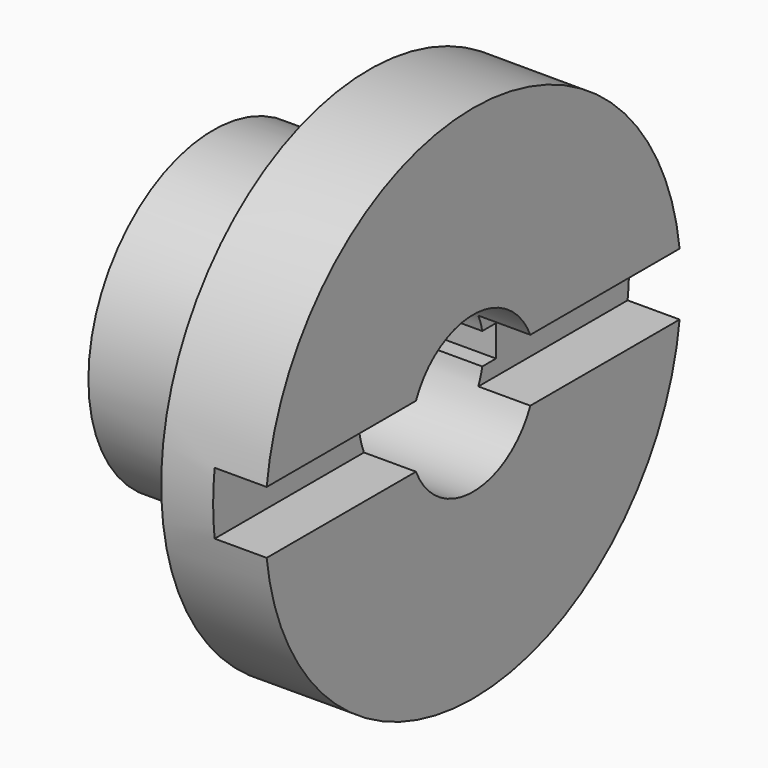
from build123d import *

# Parameters (mm, degrees)
F3_DEPTH = 10
F4_R     = 15
F5_DEPTH = 52.4
F6_W     = 100
F6_H     = 6
F7_DEPTH = 18
F8_R     = 10


with BuildPart() as f1:
    # F0 (on Top) → F1 (revolve)
    with BuildSketch(Plane.XY):
        Polygon((-50, 0), (0, 0), (0, 50), (-20, 50), (-20, 30), (-50, 30), align=None)
    revolve(axis=Axis((-25, 0, 0), (1, 0, 0)))

    # F2 (on face) → F3 (cut)
    with BuildSketch(Plane.YZ):
        with BuildLine():
            Line((49.638695, 6), (-49.638695, 6))
            ThreePointArc((-49.638695, 6), (-49.909592, 3.005434), (-50, 0))
            ThreePointArc((-50, 0), (-49.909592, -3.005434), (-49.638695, -6))
            Line((-49.638695, -6), (49.638695, -6))
            ThreePointArc((49.638695, -6), (49.909592, -3.005434), (50, 0))
            ThreePointArc((50, 0), (49.909592, 3.005434), (49.638695, 6))
        make_face()
    extrude(amount=-F3_DEPTH, mode=Mode.SUBTRACT)

    # F4 (on face) → F5 (cut)
    with BuildSketch(Plane(origin=(-50, 0, 0), x_dir=(0, -1, 0), z_dir=(-1, 0, 0))):
        Circle(F4_R)
    extrude(amount=-F5_DEPTH, mode=Mode.SUBTRACT)

    # F6 (on Front) → F7 (cut)
    with BuildSketch(Plane.XZ):
        Rectangle(F6_W, F6_H)
    extrude(amount=-F7_DEPTH, mode=Mode.SUBTRACT)

    # F8
    f8_edges = [f1.edges().sort_by_distance(p)[0] for p in [
        (-20, -30, 0),
    ]]
    fillet(f8_edges, radius=F8_R)


solid = f1.part
